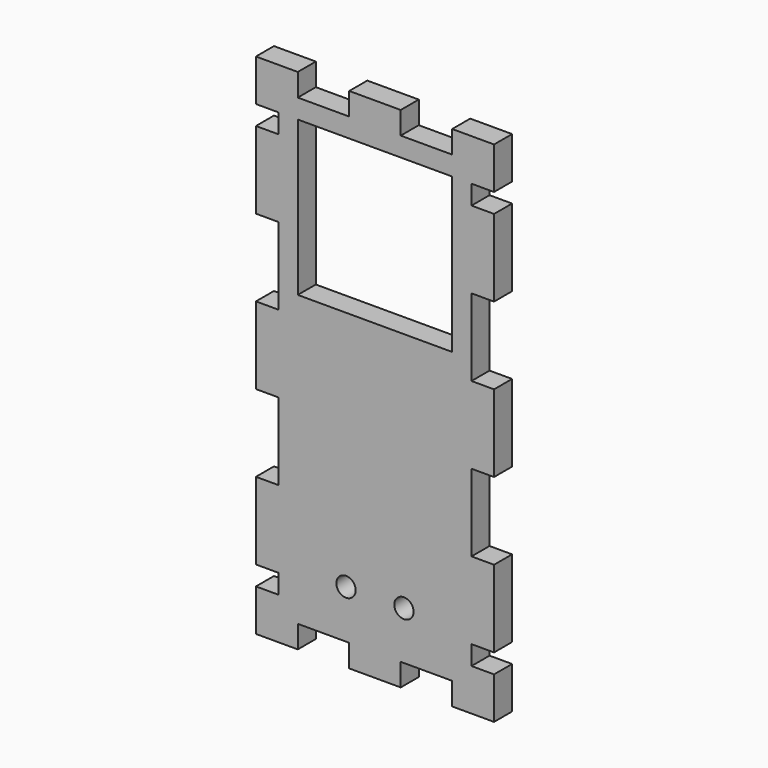
from build123d import *

# Parameters (mm, degrees)
F0_R     = 2.5
F0_W     = 40
F0_H     = 40
F0_W_2   = 13.333334
F0_H_2   = 5.842
F0_W_3   = 5.842
F0_H_3   = 20
F1_DEPTH = 5.842


with BuildPart() as f1:
    # F0 (on Front) → F1 (new body)
    with BuildSketch(Plane.XZ):
        Polygon((-25, 55), (-25, 60), (-20, 60), (-20, 65.842), (-30.842, 65.842), (-30.842, 55), align=None)
        Polygon((-20, 60), (-25, 60), (-25, 55), (-25, 50), (-25, 30), (-25, 10), (-25, -10), (-25, -30), (-25, -50), (-25, -55), (-25, -60), (-20, -60), (-6.666667, -60), (6.666667, -60), (20, -60), (25, -60), (25, -55), (25, -50), (25, -30), (25, -10), (25, 10), (25, 30), (25, 50), (25, 55), (25, 60), (20, 60), (6.666667, 60), (-6.666667, 60), align=None)
        with Locations((-7.5, -47.5)):
            Circle(F0_R, mode=Mode.SUBTRACT)
        with Locations((7.5, -47.5)):
            Circle(F0_R, mode=Mode.SUBTRACT)
        with Locations((0, 35)):
            Rectangle(F0_W, F0_H, mode=Mode.SUBTRACT)
        with Locations((0, 62.921)):
            Rectangle(F0_W_2, F0_H_2)
        with Locations((-27.921, 40)):
            Rectangle(F0_W_3, F0_H_3)
        Polygon((20, 65.842), (20, 60), (25, 60), (25, 55), (30.842, 55), (30.842, 65.842), align=None)
        with Locations((-27.921, 0)):
            Rectangle(F0_W_3, F0_H_3)
        with Locations((-27.921, -40)):
            Rectangle(F0_W_3, F0_H_3)
        with Locations((27.921, 40)):
            Rectangle(F0_W_3, F0_H_3)
        Polygon((-25, -60), (-25, -55), (-30.842, -55), (-30.842, -65.842), (-20, -65.842), (-20, -60), align=None)
        with Locations((27.921, 0)):
            Rectangle(F0_W_3, F0_H_3)
        with Locations((27.921, -40)):
            Rectangle(F0_W_3, F0_H_3)
        with Locations((0, -62.921)):
            Rectangle(F0_W_2, F0_H_2)
        Polygon((30.842, -55), (25, -55), (25, -60), (20, -60), (20, -65.842), (30.842, -65.842), align=None)
    extrude(amount=F1_DEPTH)


solid = f1.part
